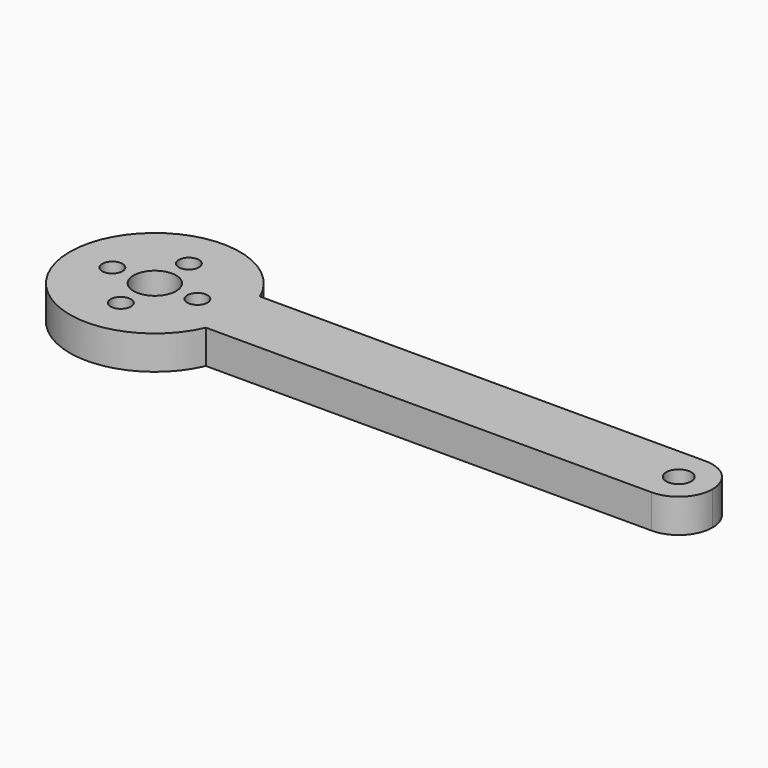
from build123d import *

# Parameters (mm, degrees)
F0_R     = 1.905
F0_R_2   = 4.0005
F0_R_3   = 2.3495
F1_DEPTH = 6.35


with BuildPart() as f1:
    # F0 (on Top) → F1 (new body)
    with BuildSketch(Plane.XY):
        with BuildLine():
            ThreePointArc((0, 6.35), (-1.859872, 10.840128), (-6.35, 12.7))
            Line((-6.35, 12.7), (-88.9, 12.7))
            Line((-88.9, 12.7), (-90.216626, 12.7))
            ThreePointArc((-90.216626, 12.7), (-120.90146, 6.35), (-90.216626, 0))
            Line((-90.216626, 0), (-88.9, 0))
            Line((-88.9, 0), (-6.35, 0))
            ThreePointArc((-6.35, 0), (-1.859872, 1.859872), (0, 6.35))
        make_face()
        with Locations((-104.902, -1.651)):
            Circle(F0_R, mode=Mode.SUBTRACT)
        with Locations((-112.903, 6.35)):
            Circle(F0_R, mode=Mode.SUBTRACT)
        with Locations((-104.902, 6.35)):
            Circle(F0_R_2, mode=Mode.SUBTRACT)
        with Locations((-96.901, 6.35)):
            Circle(F0_R, mode=Mode.SUBTRACT)
        with Locations((-104.902, 14.351)):
            Circle(F0_R, mode=Mode.SUBTRACT)
        with Locations((-6.35, 6.35)):
            Circle(F0_R_3, mode=Mode.SUBTRACT)
    extrude(amount=F1_DEPTH)


solid = f1.part
